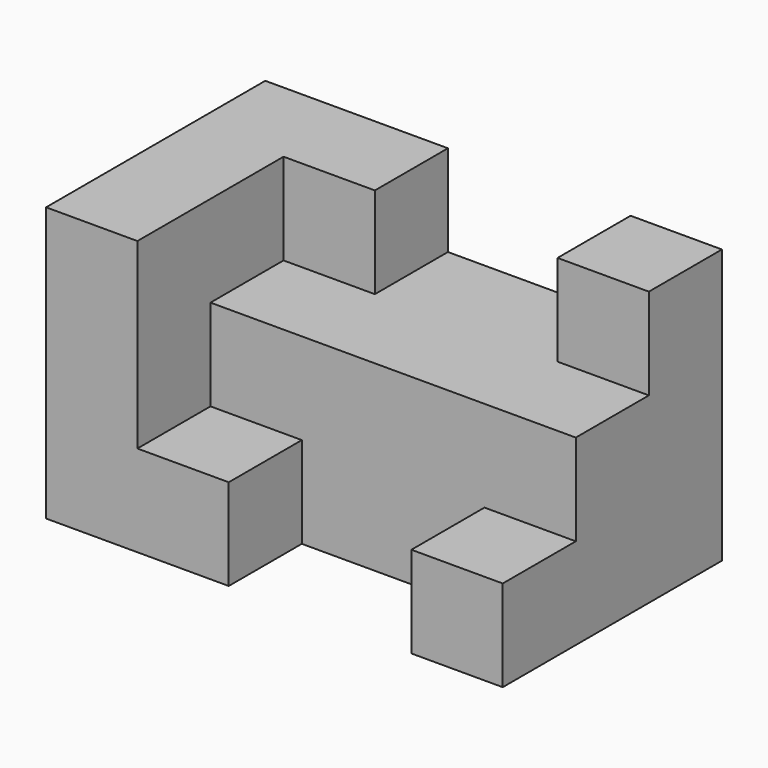
from build123d import *

# Parameters (mm, degrees)
F0_W     = 127
F0_H     = 76.2
F1_DEPTH = 76.2
F2_W     = 50.8
F2_H     = 25.4
F3_DEPTH = 76.2
F2_W_2   = 25.4
F4_DEPTH = 50.8
F5_DEPTH = 25.4


with BuildPart() as f1:
    # F0 (on Front) → F1 (new body)
    with BuildSketch(Plane.XZ):
        with Locations((-0.359578, 13.036627)):
            Rectangle(F0_W, F0_H)
    extrude(amount=F1_DEPTH)

    # F2 (on face) → F3 (cut)
    with BuildSketch(Plane.XY.offset(51.136627)):
        with Locations((12.340422, -63.5)):
            Rectangle(F2_W, F2_H)
    extrude(amount=-F3_DEPTH, mode=Mode.SUBTRACT)

    # F2 (on face) → F4 (cut)
    with BuildSketch(Plane.XY.offset(51.136627)):
        with Locations((-25.759578, -63.5)):
            Rectangle(F2_W_2, F2_H)
        with Locations((50.440422, -63.5)):
            Rectangle(F2_W_2, F2_H)
    extrude(amount=-F4_DEPTH, mode=Mode.SUBTRACT)

    # F2 (on face) → F5 (cut)
    with BuildSketch(Plane.XY.offset(51.136627)):
        Polygon((37.740422, -25.4), (37.740422, 0), (-13.059578, 0), (-13.059578, -25.4), (-38.459578, -25.4), (-38.459578, -50.8), (-13.059578, -50.8), (37.740422, -50.8), (63.140422, -50.8), (63.140422, -25.4), align=None)
    extrude(amount=-F5_DEPTH, mode=Mode.SUBTRACT)


solid = f1.part
